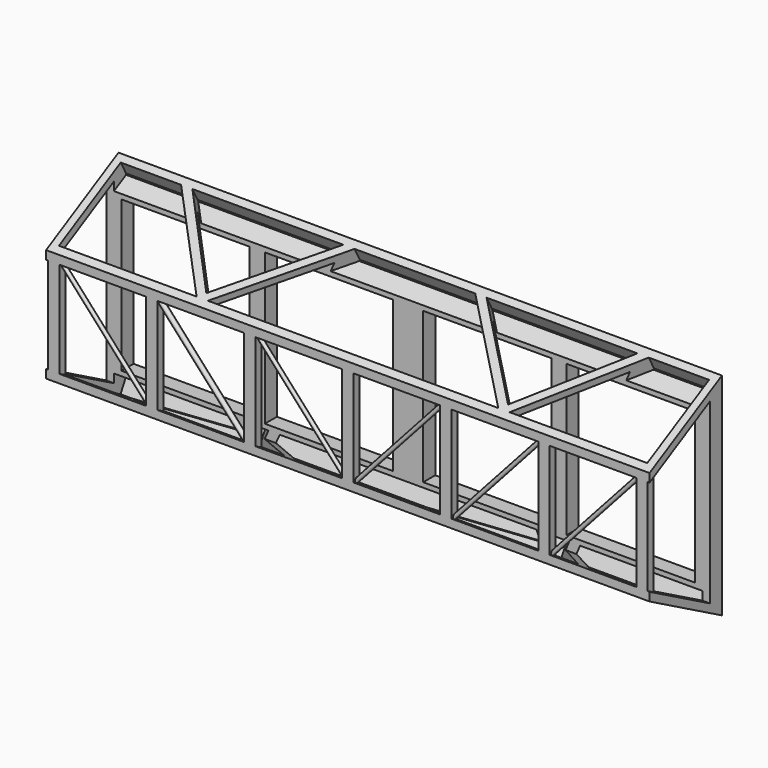
from build123d import *

# Parameters (mm, degrees)
F1_DEPTH      = 20
F1_DEPTH_BACK = 20
F3_DEPTH      = 24
F3_DEPTH_BACK = 24
F4_W          = 0.375
F4_H          = 7.5
F5_DEPTH      = 0.5
F16_W         = 8.5
F16_H         = 10
F17_DEPTH     = 1
F18_DEPTH     = 1
F19_DEPTH     = 1


with BuildPart() as f1:
    # F0 (on Right) → F1 (new body, two sides)
    with BuildSketch(Plane.YZ) as f1_sk:
        Polygon((0, -7), (0, 0), (-6, 0), (-6, -3.75), align=None)
        Polygon((-6, 0), (0, 0), (0, 7), (-6, 3.75), align=None)
    extrude(amount=F1_DEPTH)
    extrude(f1_sk.sketch, amount=-F1_DEPTH_BACK)

    # F2 (on Right) → F3 (cut, two sides)
    with BuildSketch(Plane.YZ) as f3_sk:
        Polygon((-1, 5.8904322458), (-2.7620611939, 4.9370331568), (-6, 3.185080433), (-6, -3.185), (-1, -5.89), (-1, 0), align=None)
    extrude(amount=-F3_DEPTH, mode=Mode.SUBTRACT)
    extrude(f3_sk.sketch, amount=F3_DEPTH_BACK, mode=Mode.SUBTRACT)

    # F4 (on face) → F5 (join)
    with BuildSketch(Plane.XZ.offset(6)):
        with Locations((-0.1875, 0)):
            Rectangle(F4_W, F4_H)
        with Locations((0.1875, 0)):
            Rectangle(F4_W, F4_H)
        with Locations((6.6875, 0)):
            Rectangle(F4_W, F4_H)
        with Locations((6.3125, 0)):
            Rectangle(F4_W, F4_H)
        with Locations((13.1875, 0)):
            Rectangle(F4_W, F4_H)
        with Locations((12.8125, 0)):
            Rectangle(F4_W, F4_H)
        with Locations((19.6875, 0)):
            Rectangle(F4_W, F4_H)
        with Locations((19.3125, 0)):
            Rectangle(F4_W, F4_H)
        with Locations((-6.6875, 0)):
            Rectangle(F4_W, F4_H)
        with Locations((-6.3125, 0)):
            Rectangle(F4_W, F4_H)
        with Locations((-13.1875, 0)):
            Rectangle(F4_W, F4_H)
        with Locations((-12.8125, 0)):
            Rectangle(F4_W, F4_H)
        with Locations((-19.6875, 0)):
            Rectangle(F4_W, F4_H)
        with Locations((-19.3125, 0)):
            Rectangle(F4_W, F4_H)
    extrude(amount=-F5_DEPTH)

    # F7 (on offset) → F8 (revolve)
    with BuildSketch(Plane.XZ.offset(5.75)):
        Polygon((-13.086971221, -3.3170442338), (-19.1837764068, 3.4343508854), (-19.2789044945, 3.353184308), (-13.3750620526, -3.1845304184), (-13.1797424519, -3.4008207144), align=None)
    revolve(axis=Axis((-16.3269832736, -5.75, 0.0843269448), (-0.6702118448, 0, 0.7421698479)))

    # F7 (on offset) → F9 (revolve)
    with BuildSketch(Plane.XZ.offset(5.75)):
        Polygon((-6.586971221, -3.3170442338), (-12.6837764068, 3.4343508854), (-12.8043608498, 3.3254578575), (-12.7513883635, 3.2667979242), (-6.8750620526, -3.1845304184), (-6.6797424519, -3.4008207144), align=None)
    revolve(axis=Axis((-12.7778746067, -5.75, 3.2961278908), (-0.6702118448, 0, 0.7421698479)))

    # F7 (on offset) → F10 (revolve)
    with BuildSketch(Plane.XZ.offset(5.75)):
        Polygon((-6.2765476378, 3.3505744048), (-0.3750620526, -3.1845304184), (-0.1797424519, -3.4008207144), (-0.086971221, -3.3170442338), (-6.1837764068, 3.4343508854), align=None)
    revolve(axis=Axis((-3.3258048452, -5.75, 0.0830219932), (-0.6702118448, 0, 0.7421698479)))

    # F7 (on offset) → F11 (revolve)
    with BuildSketch(Plane.XZ.offset(5.75)):
        Polygon((0.086971221, -3.3170442338), (0.1797424519, -3.4008207144), (0.3750620526, -3.1845304184), (6.2765476378, 3.3505744048), (6.1837764068, 3.4343508854), align=None)
    revolve(axis=Axis((3.3258048452, -5.75, 0.0830219932), (0.6702118448, 0, 0.7421698479)))

    # F7 (on offset) → F12 (revolve)
    with BuildSketch(Plane.XZ.offset(5.75)):
        Polygon((12.7765476378, 3.3505744048), (12.6837764068, 3.4343508854), (6.586971221, -3.3170442338), (6.6797424519, -3.4008207144), (6.8750620526, -3.1845304184), align=None)
    revolve(axis=Axis((9.8258048452, -5.75, 0.0830219932), (0.6702118448, 0, 0.7421698479)))

    # F7 (on offset) → F13 (revolve)
    with BuildSketch(Plane.XZ.offset(5.75)):
        Polygon((19.2765476378, 3.3505744048), (19.1837764068, 3.4343508854), (13.086971221, -3.3170442338), (13.1797424519, -3.4008207144), (13.3750620526, -3.1845304184), align=None)
    revolve(axis=Axis((16.3258048452, -5.75, 0.0830219932), (0.6702118448, 0, 0.7421698479)))

    # F16 (on face) → F17 (cut)
    with BuildSketch(Plane(origin=(0, 0, 0), x_dir=(-1, 0, 0), z_dir=(0, 1, 0))):
        with Locations((-14.75, 0)):
            Rectangle(F16_W, F16_H)
        Polygon((-1, -5), (-1, 0), (-1, 5), (-9.5, 5), (-9.5, -5), align=None)
        Polygon((9.5, -5), (9.5, 5), (1, 5), (1, 0), (1, -5), align=None)
        with Locations((14.75, 0)):
            Rectangle(F16_W, F16_H)
    extrude(amount=-F17_DEPTH, mode=Mode.SUBTRACT)

    # F14 (on face) → F18 (cut)
    with BuildSketch(Plane(origin=(0, -2.9315436242, 5.4120805369), x_dir=(1, 0, 0), z_dir=(0, -0.4762831485, 0.8792919665))):
        Polygon((-15.5, 2.8339820398), (-19.5, 2.8339820398), (-19.5, -2.9896899922), (-10.375, -2.9896899922), align=None)
        Polygon((-10, -2.6014451901), (-4.75, 2.8339820398), (-14.75, 2.8339820398), align=None)
        Polygon((0, -2.9896899922), (0, 2.8339820398), (-4, 2.8339820398), (-9.625, -2.9896899922), align=None)
        Polygon((4, 2.8339820398), (0, 2.8339820398), (0, -2.9896899922), (9.625, -2.9896899922), align=None)
        Polygon((14.75, 2.8339820398), (4.75, 2.8339820398), (10, -2.6014451901), align=None)
        Polygon((19.5, -2.9896899922), (19.5, 2.8339820398), (15.5, 2.8339820398), (10.375, -2.9896899922), align=None)
    extrude(amount=-F18_DEPTH, mode=Mode.SUBTRACT)

    # F15 (on face) → F19 (cut)
    with BuildSketch(Plane(origin=(0, -2.9315436242, -5.4120805369), x_dir=(1, 0, 0), z_dir=(0, -0.4762831485, -0.8792919665))):
        Polygon((-19.501139431, 3.0074388159), (-19.501139431, -2.8162332161), (-10.376139431, -2.8162332161), (-15.501139431, 3.0074388159), align=None)
        Polygon((-10.001139431, -2.4279884139), (-4.751139431, 3.0074388159), (-14.751139431, 3.0074388159), align=None)
        Polygon((-0.001139431, -2.8162332161), (-0.001139431, 3.0074388159), (-4.001139431, 3.0074388159), (-9.626139431, -2.8162332161), align=None)
        Polygon((3.998860569, 3.0074388159), (-0.001139431, 3.0074388159), (-0.001139431, -2.8162332161), (0.4340025901, -2.8162332161), (9.623860569, -2.8162332161), align=None)
        Polygon((14.748860569, 3.0074388159), (4.748860569, 3.0074388159), (9.998860569, -2.4279884139), align=None)
        Polygon((19.498860569, -2.8162332161), (19.498860569, 3.0074388159), (15.498860569, 3.0074388159), (10.373860569, -2.8162332161), align=None)
    extrude(amount=-F19_DEPTH, mode=Mode.SUBTRACT)


solid = f1.part
